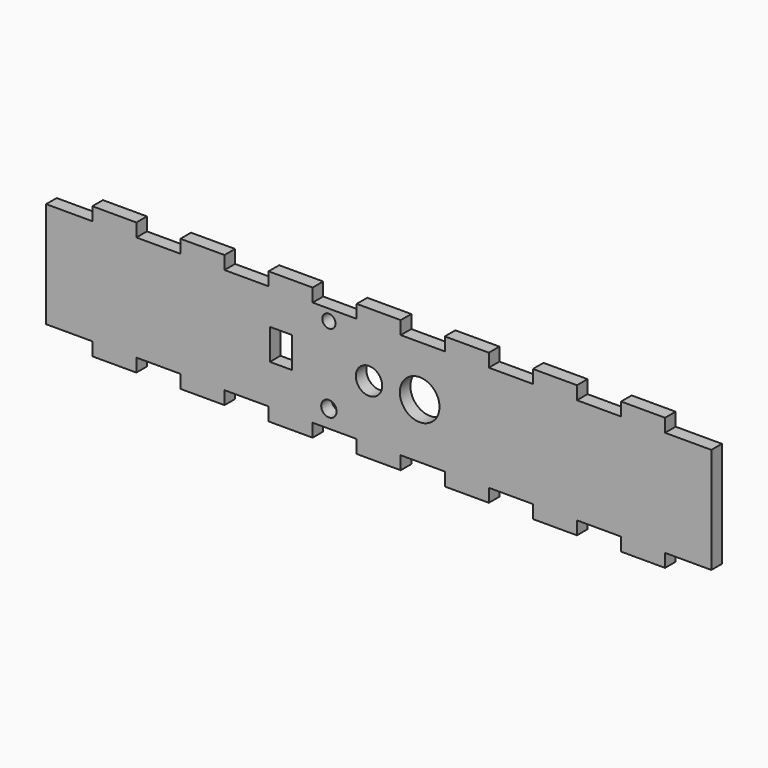
from build123d import *

# Parameters (mm, degrees)
F0_W     = 151
F0_H     = 30
F1_DEPTH = 3
F2_W     = 5
F2_H     = 3
F2_W_2   = 6.448428
F2_W_3   = 10
F2_W_4   = 3.551572
F2_R     = 4.5
F2_R_2   = 1.5
F2_R_3   = 1.75
F2_R_4   = 3
F2_H_2   = 7
F3_DEPTH = 25


with BuildPart() as f1:
    # F0 (on Front) → F1 (new body)
    with BuildSketch(Plane.XZ):
        Rectangle(F0_W, F0_H)
    extrude(amount=F1_DEPTH)

    # F2 (on face) → F3 (cut)
    with BuildSketch(Plane.XZ.offset(3)):
        with Locations((-72.5, -13.5)):
            Rectangle(F2_W, F2_H)
        with Locations((-78.224214, -13.5)):
            Rectangle(F2_W_2, F2_H)
        with Locations((-67.5, -13.5)):
            Rectangle(F2_W, F2_H)
        with Locations((-72.5, 13.5)):
            Rectangle(F2_W, F2_H)
        with Locations((-78.224214, 13.5)):
            Rectangle(F2_W_2, F2_H)
        with Locations((-67.5, 13.5)):
            Rectangle(F2_W, F2_H)
        with Locations((-50, -13.5)):
            Rectangle(F2_W_3, F2_H)
        with Locations((-50, 13.5)):
            Rectangle(F2_W_3, F2_H)
        with Locations((-30, -13.5)):
            Rectangle(F2_W_3, F2_H)
        with Locations((-30, 13.5)):
            Rectangle(F2_W_3, F2_H)
        with Locations((-10, -13.5)):
            Rectangle(F2_W_3, F2_H)
        with Locations((-10, 13.5)):
            Rectangle(F2_W_3, F2_H)
        with Locations((10, -13.5)):
            Rectangle(F2_W_3, F2_H)
        with Locations((10, 13.5)):
            Rectangle(F2_W_3, F2_H)
        with Locations((30, -13.5)):
            Rectangle(F2_W_3, F2_H)
        with Locations((30, 13.5)):
            Rectangle(F2_W_3, F2_H)
        with Locations((50, -13.5)):
            Rectangle(F2_W_3, F2_H)
        with Locations((50, 13.5)):
            Rectangle(F2_W_3, F2_H)
        with Locations((66.775786, -13.5)):
            Rectangle(F2_W_4, F2_H)
        with Locations((71.775786, -13.5)):
            Rectangle(F2_W_2, F2_H)
        with Locations((77.5, -13.5)):
            Rectangle(F2_W, F2_H)
        with Locations((66.775786, 13.5)):
            Rectangle(F2_W_4, F2_H)
        with Locations((71.775786, 13.5)):
            Rectangle(F2_W_2, F2_H)
        with Locations((77.5, 13.5)):
            Rectangle(F2_W, F2_H)
        with Locations((9.295744, 0.5)):
            Circle(F2_R)
        with Locations((-11.304256, 9.5)):
            Circle(F2_R_2)
        with Locations((-11.304256, -8)):
            Circle(F2_R_3)
        with Locations((-2.204256, 0.5)):
            Circle(F2_R_4)
        with Locations((-22.204256, 0.5)):
            Rectangle(F2_W, F2_H_2)
    extrude(amount=-F3_DEPTH, mode=Mode.SUBTRACT)


solid = f1.part
